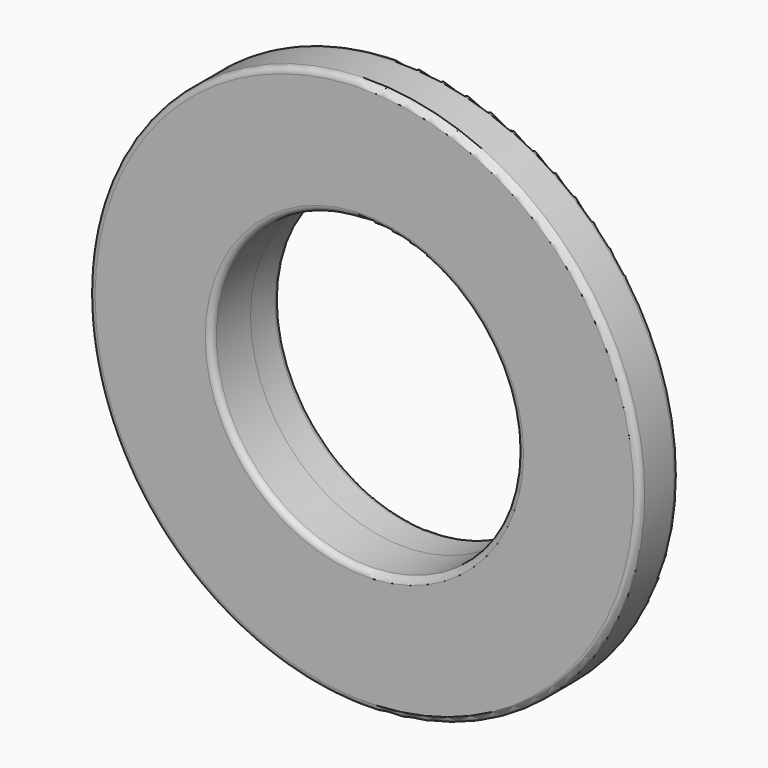
from build123d import *

# Parameters (mm, degrees)
F0_R     = 22.5
F0_R_2   = 12.5
F1_DEPTH = 4
F2_R     = 16.5
F2_R_2   = 12.5
F3_DEPTH = 3
F4_R     = 0.5
F5_R     = 0.5


with BuildPart() as f1:
    # F0 (on Front) → F1 (new body)
    with BuildSketch(Plane.XZ):
        Circle(F0_R)
        Circle(F0_R_2, mode=Mode.SUBTRACT)
    extrude(amount=F1_DEPTH)

    # F2 (on face) → F3 (join)
    with BuildSketch(Plane(origin=(0, 0, 0), x_dir=(-1, 0, 0), z_dir=(0, 1, 0))):
        Circle(F2_R)
        Circle(F2_R_2, mode=Mode.SUBTRACT)
    extrude(amount=F3_DEPTH)

    # F4
    f4_edges = [f1.edges().sort_by_distance(p)[0] for p in [
        (-22.5, -4, 0),
        (-12.5, -4, 0),
        (-22.5, 0, 0),
        (16.5, 0, 0),
        (16.5, 3, 0),
    ]]
    fillet(f4_edges, radius=F4_R)

    # F5
    f5_edges = [f1.edges().sort_by_distance(p)[0] for p in [
        (12.5, 3, 0),
    ]]
    fillet(f5_edges, radius=F5_R)


solid = f1.part
